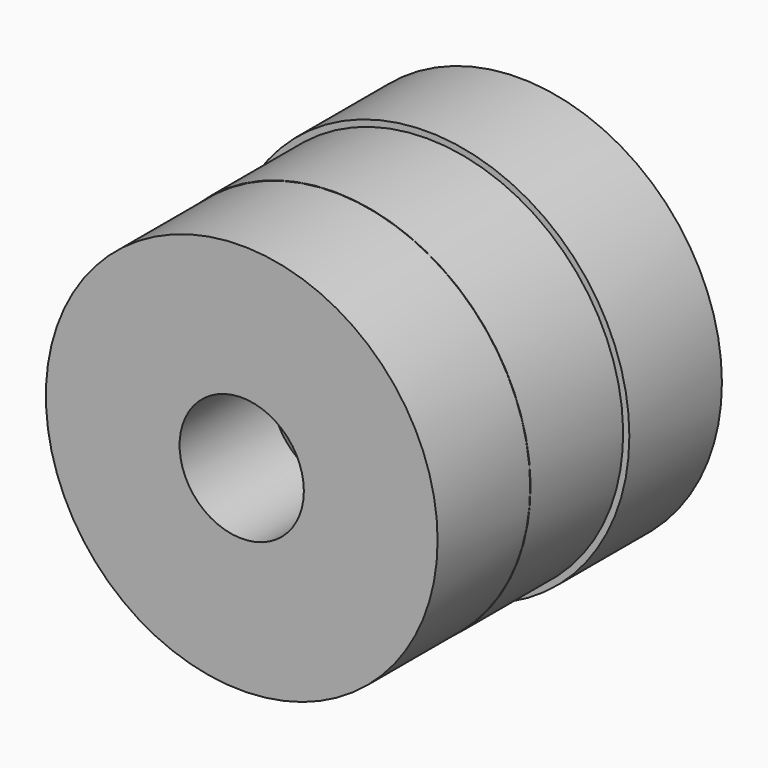
from build123d import *

# Parameters (mm, degrees)
F0_R     = 22.225
F0_R_2   = 17.4625
F1_DEPTH = 12.7
F4_R     = 21.498416
F4_R_2   = 6.818861
F5_DEPTH = 12.7


with BuildPart() as f1:
    # F0 (on Front) → F1 (new body)
    with BuildSketch(Plane.XZ):
        Circle(F0_R)
        Circle(F0_R_2, mode=Mode.SUBTRACT)
    extrude(amount=F1_DEPTH)

    # F2 (on Right) → F3 (revolve)
    with BuildSketch(Plane.YZ):
        Polygon((-25.4, 7.9375), (-12.7, 16.581038), (-12.7, 21.541582), (-25.4, 21.541582), align=None)
    revolve(axis=Axis((0, -12.7, 0), (0, -1, 0)))

    # F4 (on face) → F5 (join)
    with BuildSketch(Plane.XZ.offset(25.4)):
        Circle(F4_R)
        Circle(F4_R_2, mode=Mode.SUBTRACT)
    extrude(amount=F5_DEPTH)


solid = f1.part
